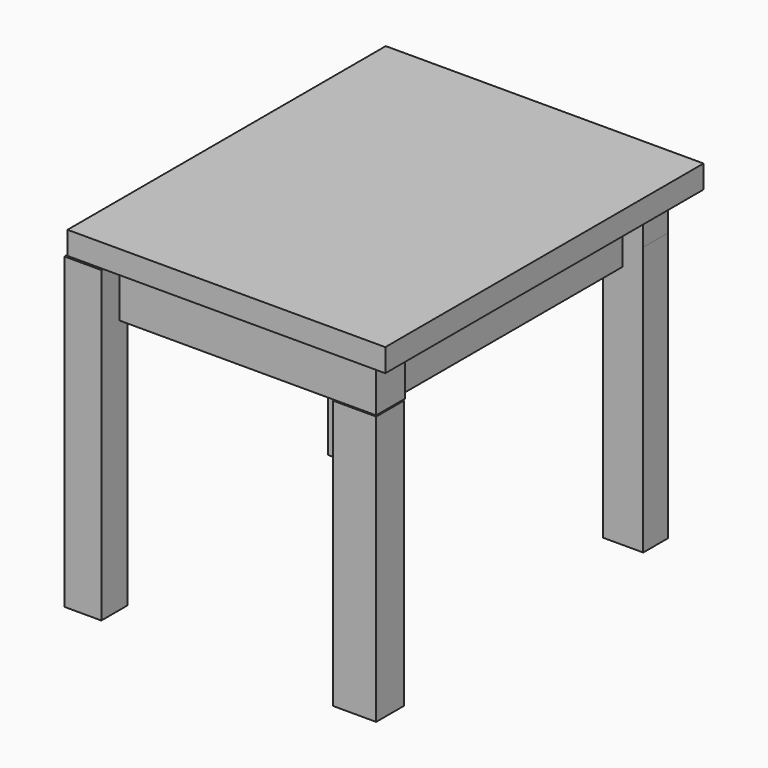
from build123d import *

# Parameters (mm, degrees)
F0_W      = 77.174433
F0_H      = 96.608501
F1_DEPTH  = 5.588
F2_W      = 68.301193
F2_H      = 7.539602
F3_DEPTH  = 8.89
F5_W      = 8.951537
F5_H      = 89.109538
F6_DEPTH  = 9.652
F7_W      = 62.371264
F7_H      = 8.711357
F8_DEPTH  = 10.922
F9_W      = 10.603017
F9_H      = 71.633166
F10_DEPTH = 12.446
F11_W     = 8.951537
F11_H     = 7.959996
F12_DEPTH = 65.278
F13_W     = 8.951537
F13_H     = 9.143047
F14_DEPTH = 65.278
F16_W     = 10.47174
F16_H     = 8.376345
F17_DEPTH = 65.278
F18_W     = 9.800547
F18_H     = 7.539602
F19_DEPTH = 65.278


with BuildPart() as f1:
    # F0 (on Top) → F1 (new body)
    with BuildSketch(Plane.XY):
        with Locations((-38.587216, -13.363638)):
            Rectangle(F0_W, F0_H)
    extrude(amount=F1_DEPTH)

    # F2 (on face) → F3 (join)
    with BuildSketch(Plane(origin=(0, 0, 0), x_dir=(1, 0, 0), z_dir=(0, 0, -1))):
        with Locations((-38.954635, -26.410335)):
            Rectangle(F2_W, F2_H)
    extrude(amount=F3_DEPTH)

    # F5 (on face) → F6 (join)
    with BuildSketch(Plane(origin=(0, 0, 0), x_dir=(1, 0, 0), z_dir=(0, 0, -1))):
        with Locations((-73.002282, 17.658313)):
            Rectangle(F5_W, F5_H)
    extrude(amount=F6_DEPTH)

    # F7 (on face) → F8 (join)
    with BuildSketch(Plane(origin=(0, 0, 0), x_dir=(1, 0, 0), z_dir=(0, 0, -1))):
        with Locations((-34.851524, 55.500583)):
            Rectangle(F7_W, F7_H)
    extrude(amount=F8_DEPTH)

    # F9 (on face) → F10 (join)
    with BuildSketch(Plane(origin=(0, 0, 0), x_dir=(1, 0, 0), z_dir=(0, 0, -1))):
        with Locations((-12.406795, 16.614151)):
            Rectangle(F9_W, F9_H)
    extrude(amount=F10_DEPTH)

    # F11 (on face) → F12 (join)
    with BuildSketch(Plane(origin=(0, 0, -9.652), x_dir=(1, 0, 0), z_dir=(0, 0, -1))):
        with Locations((-73.002282, 58.233084)):
            Rectangle(F11_W, F11_H)
    extrude(amount=F12_DEPTH)

    # F13 (on face) → F14 (join)
    with BuildSketch(Plane(origin=(0, 0, -9.652), x_dir=(1, 0, 0), z_dir=(0, 0, -1))):
        with Locations((-73.002282, -22.324932)):
            Rectangle(F13_W, F13_H)
    extrude(amount=F14_DEPTH)

    # F16 (on face) → F17 (join)
    with BuildSketch(Plane(origin=(0, 0, -10.922), x_dir=(1, 0, 0), z_dir=(0, 0, -1))):
        with Locations((-8.571083, 56.077204)):
            Rectangle(F16_W, F16_H)
    extrude(amount=F17_DEPTH)

    # F18 (on face) → F19 (join)
    with BuildSketch(Plane(origin=(0, 0, -8.89), x_dir=(1, 0, 0), z_dir=(0, 0, -1))):
        with Locations((-9.704311, -26.410335)):
            Rectangle(F18_W, F18_H)
    extrude(amount=F19_DEPTH)


solid = f1.part
